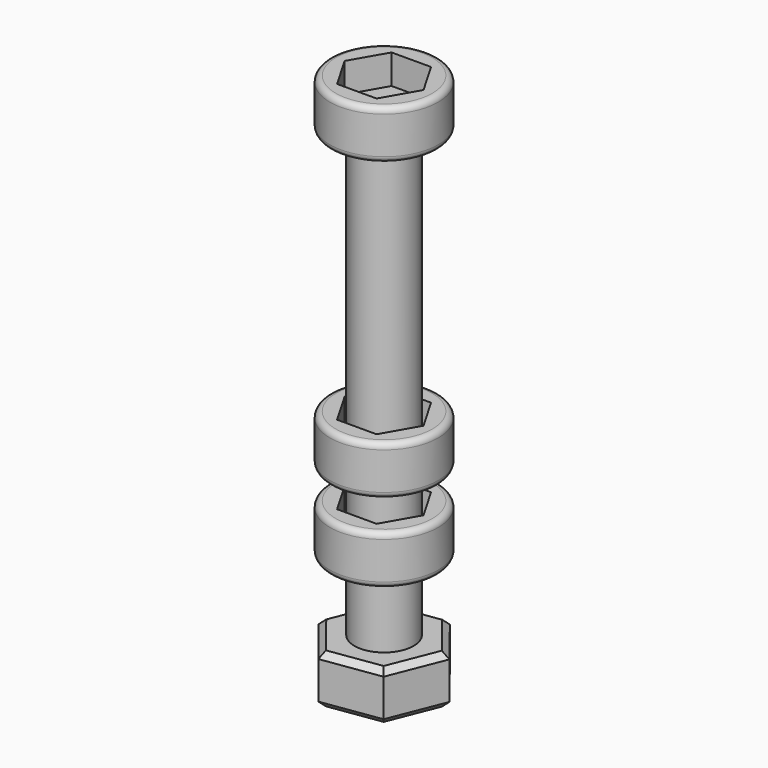
from build123d import *

# Parameters (mm, degrees)
SKETCH_R        = 1.5
PAD_DEPTH       = 10
SKETCH001_R     = 2.75
PAD001_DEPTH    = 2.5
POCKET_DEPTH    = 1.5
FILLET_R        = 0.3
SKETCH004_R     = 1.5
PAD002_DEPTH    = 2.5
CHAMFER001_SIZE = 0.3
CHAMFER002_SIZE = 0.3
SKETCH005_R     = 1.5
PAD004_DEPTH    = 6
SKETCH006_R     = 2.75
PAD003_DEPTH    = 2.5
POCKET001_DEPTH = 1.5
FILLET001_R     = 0.3
SKETCH008_R     = 1.5
PAD006_DEPTH    = 25
SKETCH009_R     = 2.75
PAD005_DEPTH    = 2.5
POCKET002_DEPTH = 1.5
FILLET002_R     = 0.3


with BuildPart() as m3_10mm:
    # Sketch → Pad (new body)
    with BuildSketch(Plane.XY):
        Circle(SKETCH_R)
    extrude(amount=PAD_DEPTH)

    # Sketch001 (on Face3 of Pad) → Pad001 (join)
    with BuildSketch(Plane.XY.offset(10)):
        Circle(SKETCH001_R)
    extrude(amount=PAD001_DEPTH)

    # Sketch002 (on Face3 of Pad001) → Pocket (cut)
    with BuildSketch(Plane.XY.offset(12.5)):
        Polygon((1.999996, 0.004094), (0.996452, 1.734094), (-1.003544, 1.73), (-1.999996, -0.004094), (-0.996452, -1.734094), (1.003544, -1.73), align=None)
    extrude(amount=-POCKET_DEPTH, mode=Mode.SUBTRACT)

    # Fillet
    fillet_edges = [m3_10mm.edges().sort_by_distance(p)[0] for p in [
        (-2.75, 0, 12.5),
        (-2.75, 0, 10),
    ]]
    fillet(fillet_edges, radius=FILLET_R)


with BuildPart() as m3_nut:
    # Sketch004 → Pad002 (new body)
    with BuildSketch(Plane.XY):
        Polygon((1.108956, 2.787511), (-1.859577, 2.35414), (-2.968533, -0.433371), (-1.108956, -2.787511), (1.859577, -2.35414), (2.968533, 0.433371), align=None)
        Circle(SKETCH004_R, mode=Mode.SUBTRACT)
    extrude(amount=PAD002_DEPTH)

    # Chamfer001
    chamfer001_edges = [m3_nut.edges().sort_by_distance(p)[0] for p in [
        (-2.038745, -1.610441, 0),
        (0.37531, -2.570825, 0),
        (2.414055, -0.960384, 0),
        (2.038745, 1.610441, 0),
        (-0.37531, 2.570825, 0),
        (-2.414055, 0.960384, 0),
    ]]
    chamfer(chamfer001_edges, length=CHAMFER001_SIZE)

    # Chamfer002
    chamfer002_edges = [m3_nut.edges().sort_by_distance(p)[0] for p in [
        (0.37531, -2.570825, 2.5),
        (-2.038745, -1.610441, 2.5),
        (-2.414055, 0.960384, 2.5),
        (-0.37531, 2.570825, 2.5),
        (2.038745, 1.610441, 2.5),
        (2.414055, -0.960384, 2.5),
    ]]
    chamfer(chamfer002_edges, length=CHAMFER002_SIZE)


with BuildPart() as m3_6mm:
    # Sketch005 → Pad004 (new body)
    with BuildSketch(Plane.XY):
        Circle(SKETCH005_R)
    extrude(amount=PAD004_DEPTH)

    # Sketch006 (on Face3 of Pad004) → Pad003 (join)
    with BuildSketch(Plane.XY.offset(6)):
        Circle(SKETCH006_R)
    extrude(amount=PAD003_DEPTH)

    # Sketch007 (on Face3 of Pad003) → Pocket001 (cut)
    with BuildSketch(Plane.XY.offset(8.5)):
        Polygon((1.999996, 0.004094), (0.996452, 1.734094), (-1.003544, 1.73), (-1.999996, -0.004094), (-0.996452, -1.734094), (1.003544, -1.73), align=None)
    extrude(amount=-POCKET001_DEPTH, mode=Mode.SUBTRACT)

    # Fillet001
    fillet001_edges = [m3_6mm.edges().sort_by_distance(p)[0] for p in [
        (-2.75, 0, 8.5),
        (-2.75, 0, 6),
    ]]
    fillet(fillet001_edges, radius=FILLET001_R)


with BuildPart() as m3_25mm:
    # Sketch008 → Pad006 (new body)
    with BuildSketch(Plane.XY):
        Circle(SKETCH008_R)
    extrude(amount=PAD006_DEPTH)

    # Sketch009 (on Face3 of Pad006) → Pad005 (join)
    with BuildSketch(Plane.XY.offset(25)):
        Circle(SKETCH009_R)
    extrude(amount=PAD005_DEPTH)

    # Sketch010 (on Face3 of Pad005) → Pocket002 (cut)
    with BuildSketch(Plane.XY.offset(27.5)):
        Polygon((1.999996, 0.004094), (0.996452, 1.734094), (-1.003544, 1.73), (-1.999996, -0.004094), (-0.996452, -1.734094), (1.003544, -1.73), align=None)
    extrude(amount=-POCKET002_DEPTH, mode=Mode.SUBTRACT)

    # Fillet002
    fillet002_edges = [m3_25mm.edges().sort_by_distance(p)[0] for p in [
        (-2.75, 0, 27.5),
        (-2.75, 0, 25),
    ]]
    fillet(fillet002_edges, radius=FILLET002_R)


solid = Compound([m3_10mm.part, m3_nut.part, m3_6mm.part, m3_25mm.part])
